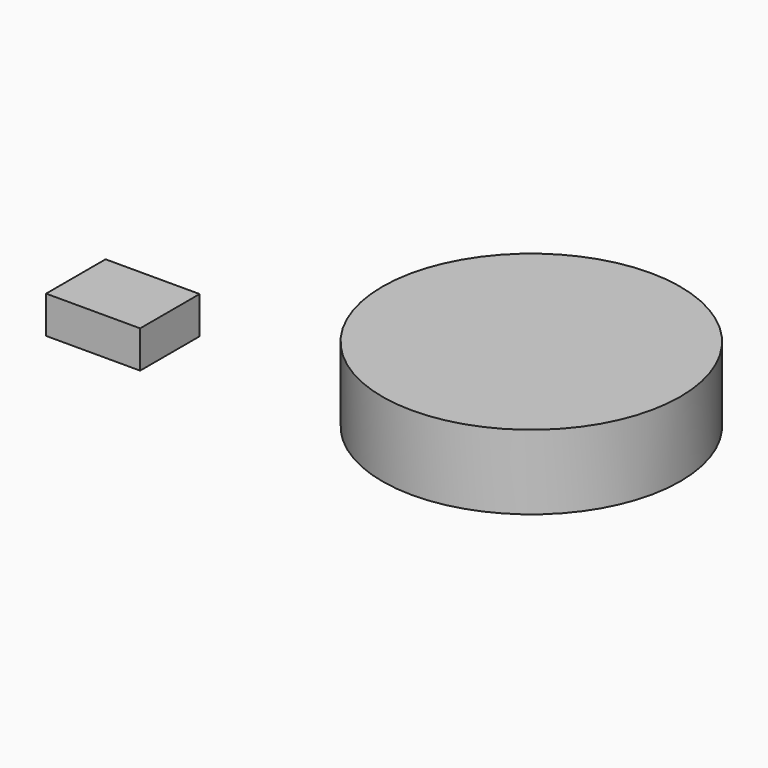
from build123d import *

# Parameters (mm, degrees)
F0_R     = 50.8
F1_DEPTH = 25.4
F2_W     = 32.064319
F2_H     = 25.348935
F3_DEPTH = 12.7


with BuildPart() as f1:
    # F0 (on Top) → F1 (new body)
    with BuildSketch(Plane.XY):
        with Locations((-50.8, 0)):
            Circle(F0_R)
    extrude(amount=F1_DEPTH)


with BuildPart() as f3:
    # F2 (on face) → F3 (new body)
    with BuildSketch(Plane.XY.offset(25.4)):
        with Locations((-137.717142, -65.429998)):
            Rectangle(F2_W, F2_H)
    extrude(amount=F3_DEPTH)


solid = Compound([f1.part, f3.part])
